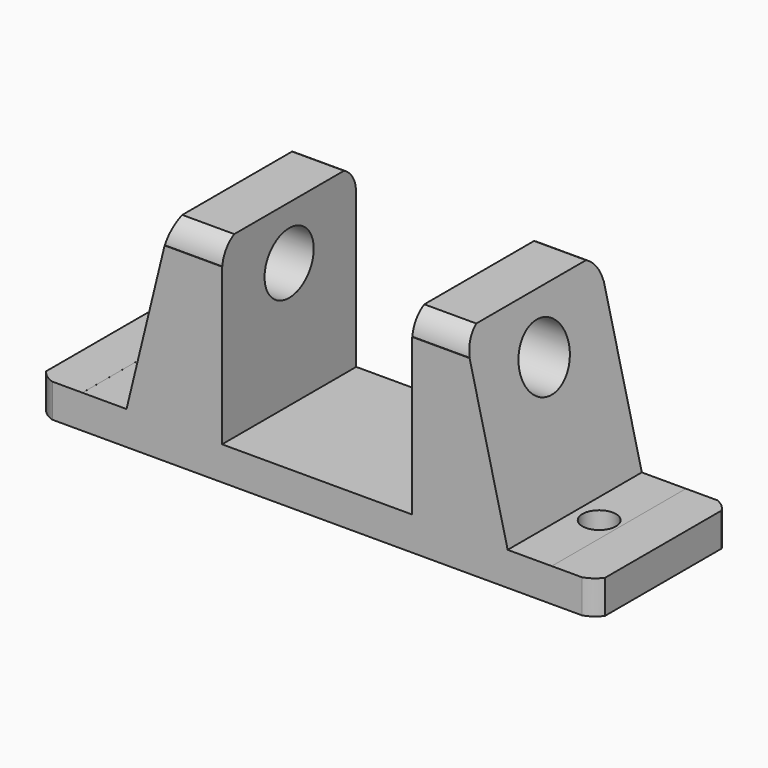
from build123d import *

# Parameters (mm, degrees)
SKETCH_W        = 50
SKETCH_H        = 15
PAD_DEPTH       = 3
SKETCH001_W     = 40
SKETCH001_H     = 15
PAD001_DEPTH    = 16
POCKET_DEPTH    = 30
SKETCH011_W     = 17
SKETCH011_H     = 15
POCKET001_DEPTH = 16
SKETCH004_R     = 2.75
HOLE_DEPTH      = 25
HOLE001_DEPTH   = 25
HOLE001_TIPS_R  = 2.75
POCKET002_DEPTH = 35
POCKET003_DEPTH = 5
SKETCH007_R     = 1.5
POCKET004_DEPTH = 10


with BuildPart() as part:
    # Sketch → Pad (new body)
    with BuildSketch(Plane.XY):
        Rectangle(SKETCH_W, SKETCH_H)
    extrude(amount=PAD_DEPTH)

    # Sketch001 (on Face6 of Pad) → Pad001 (join)
    with BuildSketch(Plane.XY.offset(3)):
        Rectangle(SKETCH001_W, SKETCH001_H)
    extrude(amount=PAD001_DEPTH)

    # Sketch002 (on Face9 of Pad001) → Pocket (cut)
    with BuildSketch(Plane.XZ.offset(7.5)):
        Polygon((-17.046261, 2.99842), (-13.147281, 19.007174), (-20.991112, 19.328264), (-20.991112, 2.99842), align=None)
        Polygon((17.046261, 2.99842), (13.147281, 19.007174), (20.991112, 19.328264), (20.991112, 2.99842), align=None)
    extrude(amount=-POCKET_DEPTH, mode=Mode.SUBTRACT)

    # Sketch011 (on Face11 of Pocket) → Pocket001 (cut)
    with BuildSketch(Plane.XY.offset(19)):
        Rectangle(SKETCH011_W, SKETCH011_H)
    extrude(amount=-POCKET001_DEPTH, mode=Mode.SUBTRACT)

    # Sketch004 → Hole (cut)
    with BuildSketch(Plane.YZ.offset(-8.5)):
        with Locations((0, 14.231076)):
            Circle(SKETCH004_R)
    extrude(amount=-HOLE_DEPTH, mode=Mode.SUBTRACT)

    # Sketch004 → Hole001 (cut)
    with BuildSketch(Plane.YZ.offset(-8.5)):
        with Locations((0, 14.231076)):
            Circle(SKETCH004_R)
    extrude(amount=HOLE001_DEPTH, mode=Mode.SUBTRACT)

    # Hole001 tips → Hole001 tip 1 section 0
    with BuildSketch(Plane.YZ.offset(16.5), mode=Mode.PRIVATE) as hole001_tip_1_s0:
        with Locations((0, 14.231076)):
            Circle(HOLE001_TIPS_R)
    loft([hole001_tip_1_s0.sketch, Vertex(18.152367, 0, 14.231076)], mode=Mode.SUBTRACT)

    # Sketch005 → Pocket002 (cut, symmetric)
    with BuildSketch(Plane(origin=(8.5, 0, 0), x_dir=(0, -1, 0), z_dir=(-1, 0, 0))):
        with BuildLine():
            ThreePointArc((-5.391307, 19.250991), (-6.817122, 18.478375), (-7.471648, 16.994637))
            Line((-7.471648, 16.994637), (-7.674281, 16.939731))
            Line((-7.674281, 16.939731), (-7.674281, 19.250991))
            Line((-5.391307, 19.250991), (-7.674281, 19.250991))
        make_face()
        with BuildLine():
            ThreePointArc((7.47165, 16.994637), (6.817123, 18.478376), (5.391307, 19.250992))
            Line((5.391307, 19.250992), (7.674281, 19.250992))
            Line((7.674281, 16.939731), (7.674281, 19.250992))
            Line((7.47165, 16.994637), (7.674281, 16.939731))
        make_face()
    extrude(amount=POCKET002_DEPTH, both=True, mode=Mode.SUBTRACT)

    # Sketch006 → Pocket003 (cut)
    with BuildSketch(Plane.XY.offset(3)):
        with BuildLine():
            ThreePointArc((-23.120269, 7.667623), (-24.453663, 7.11346), (-25.253739, 5.911415))
            Line((-25.253739, 5.911415), (-25.253739, 7.71409))
            Line((-25.253739, 7.71409), (-23.120269, 7.667623))
        make_face()
        with BuildLine():
            ThreePointArc((-25.38047, -5.775698), (-24.586864, -7.001599), (-23.25292, -7.595938))
            Line((-25.38047, -7.584312), (-23.25292, -7.595938))
            Line((-25.38047, -5.775698), (-25.38047, -7.584312))
        make_face()
        with BuildLine():
            ThreePointArc((25.253739, 5.911415), (24.453663, 7.113459), (23.12027, 7.667622))
            Line((25.253739, 7.71409), (23.12027, 7.667622))
            Line((25.253739, 5.911415), (25.253739, 7.71409))
        make_face()
        with BuildLine():
            ThreePointArc((23.25292, -7.595938), (24.586863, -7.001599), (25.380469, -5.775699))
            Line((25.380469, -5.775699), (25.380469, -7.584312))
            Line((25.380469, -7.584312), (23.25292, -7.595938))
        make_face()
    extrude(amount=-POCKET003_DEPTH, mode=Mode.SUBTRACT)

    # Sketch007 → Pocket004 (cut)
    with BuildSketch(Plane.XY.offset(3)):
        with Locations((-19.232222, 0)):
            Circle(SKETCH007_R)
        with Locations((19.232222, 0)):
            Circle(SKETCH007_R)
    extrude(amount=-POCKET004_DEPTH, mode=Mode.SUBTRACT)


solid = part.part
